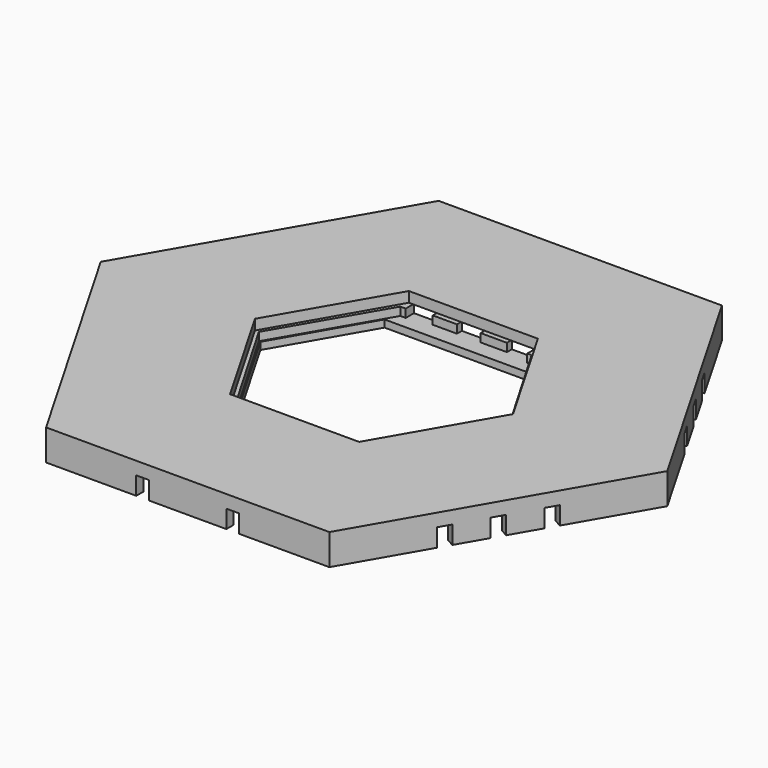
from build123d import *

# Parameters (mm, degrees)
PAD_DEPTH       = 12
POCKET_DEPTH    = 4
POCKET001_DEPTH = 2
POCKET002_DEPTH = 3.2
POCKET003_DEPTH = 5
POCKET004_DEPTH = 8
SKETCH007_W     = 6
SKETCH007_H     = 7
POCKET005_DEPTH = 2
SKETCH008_W     = 5
SKETCH008_H     = 6
SKETCH008_H_2   = 5.175393
POCKET006_DEPTH = 7
SKETCH009_W     = 10
SKETCH009_H     = 4
PAD001_DEPTH    = 3
POCKET007_DEPTH = 52


with BuildPart() as part:
    # Sketch → Pad (new body)
    with BuildSketch(Plane.XY):
        Polygon((-110, 0), (-55, -95.262794), (55, -95.262794), (110, 0), (55, 95.262794), (-55, 95.262794), align=None)
    extrude(amount=PAD_DEPTH)

    # Sketch001 (on Face8 of Pad) → Pocket (cut)
    with BuildSketch(Plane.XY.offset(12)):
        Polygon((-50.1, 0), (-25.05, -43.387873), (25.05, -43.387873), (50.1, 0), (25.05, 43.387873), (-25.05, 43.387873), align=None)
    extrude(amount=-POCKET_DEPTH, mode=Mode.SUBTRACT)

    # Sketch002 (on Face4 of Pocket) → Pocket001 (cut)
    with BuildSketch(Plane(origin=(0, 0, 0), x_dir=(1, 0, 0), z_dir=(0, 0, -1))):
        with BuildLine():
            Line((-106, 0), (-53, -91.798693))
            Line((53, -91.798693), (-53, -91.798693))
            Line((53, -91.798693), (106, 0))
            Line((53, 91.798693), (106, 0))
            Line((1.5, 91.798693), (53, 91.798693))
            Line((1.5, 91.798693), (1.5, 92.298693))
            ThreePointArc((1.5, 92.298693), (0, 93.798693), (-1.5, 92.298693))
            Line((-1.5, 91.798693), (-1.5, 92.298693))
            Line((-53, 91.798693), (-1.5, 91.798693))
            Line((-106, 0), (-53, 91.798693))
        make_face()
    extrude(amount=-POCKET001_DEPTH, mode=Mode.SUBTRACT)

    # Sketch003 (on Face26 of Pocket001) → Pocket002 (cut)
    with BuildSketch(Plane.XY.offset(8)):
        Polygon((-48.615, 0), (-24, -42.351379), (-12.5, -42.351379), (-12.5, -44.351379), (12.5, -44.351379), (12.5, -42.351379), (24, -42.351379), (48.615, 0), (25.5, 39.770552), (23.8, 39.770552), (23.8, 44.21), (14.6, 44.21), (14.6, 41.41), (4.4, 41.41), (4.4, 44.21), (-4.8, 44.21), (-4.8, 41.41), (-14.2, 41.41), (-14.2, 44.21), (-23.4, 44.21), (-23.4, 39.770552), (-25.5, 39.770552), align=None)
    extrude(amount=-POCKET002_DEPTH, mode=Mode.SUBTRACT)

    # Sketch005 (on Face56 of Pocket002) → Pocket003 (cut)
    with BuildSketch(Plane.XY.offset(4.8)):
        Polygon((-24, -41.569219), (24, -41.569219), (48, 0), (27.792741, 35), (-27.792741, 35), (-48, 0), align=None)
    extrude(amount=-POCKET003_DEPTH, mode=Mode.SUBTRACT)

    # Sketch006 (on Face25 of Pocket003) → Pocket004 (cut)
    with BuildSketch(Plane(origin=(0, 0, 2), x_dir=(1, 0, 0), z_dir=(0, 0, -1))):
        Polygon((106, 0), (53, 91.798693), (-53, 91.798693), (-106, 0), (-53, -91.798693), (53, -91.798693), align=None)
        Polygon((-26.5, -43.8), (26.5, -43.8), (52, 0), (26, 45.033321), (-26, 45.033321), (-52, 0), align=None, mode=Mode.SUBTRACT)
    extrude(amount=-POCKET004_DEPTH, mode=Mode.SUBTRACT)

    # Sketch007 (on Face14 of Pocket004) → Pocket005 (cut)
    with BuildSketch(Plane(origin=(0, -91.798693, 0), x_dir=(-1, 0, 0), z_dir=(0, 1, 0))):
        with Locations((0, 5.5)):
            Rectangle(SKETCH007_W, SKETCH007_H)
    extrude(amount=-POCKET005_DEPTH, mode=Mode.SUBTRACT)

    # Sketch008 (on Face4 of Pocket005) → Pocket006 (cut)
    with BuildSketch(Plane(origin=(0, 0, 0), x_dir=(1, 0, 0), z_dir=(0, 0, -1))):
        with Locations((-17.5, -93.155396)):
            Rectangle(SKETCH008_W, SKETCH008_H)
        with Locations((17.5, -93.155396)):
            Rectangle(SKETCH008_W, SKETCH008_H)
        with Locations((-17.5, 92.844604)):
            Rectangle(SKETCH008_W, SKETCH008_H)
        with Locations((17.5, 92.844604)):
            Rectangle(SKETCH008_W, SKETCH008_H)
        Polygon((72.943614, -65.208026), (67.747462, -62.208026), (70.247462, -57.877899), (75.443614, -60.877899), align=None)
        Polygon((91.08198, -35.276307), (85.885827, -32.276307), (88.385827, -27.94618), (93.58198, -30.94618), align=None)
        Polygon((-88.307892, 27.495521), (-93.504045, 30.495521), (-90.832982, 35.121938), (-85.636829, 32.121938), align=None)
        Polygon((-70.637333, 58.102991), (-75.833485, 61.102991), (-73.162422, 65.729408), (-67.96627, 62.729408), align=None)
        Polygon((68.025973, 62.368825), (73.222126, 65.368825), (75.722126, 61.038698), (70.525973, 58.038698), align=None)
        Polygon((85.525973, 32.057936), (90.722126, 35.057936), (93.222126, 30.727809), (88.025973, 27.727809), align=None)
        Polygon((-93.477396, -30.875189), (-88.281244, -27.875189), (-85.781244, -32.205316), (-90.977396, -35.205316), align=None)
        Polygon((-75.942627, -61.165973), (-70.746474, -58.165973), (-68.246474, -62.4961), (-73.442627, -65.4961), align=None)
        with Locations((0, -93.5677)):
            Rectangle(SKETCH008_W, SKETCH008_H_2)
        Polygon((-85.225594, -46.318269), (-80.029442, -43.318269), (-77.529442, -47.648396), (-82.725594, -50.648396), align=None)
        Polygon((76.42707, 47.011941), (81.623222, 50.011941), (84.123222, 45.681814), (78.92707, 42.681814), align=None)
        Polygon((-79.184311, 42.830332), (-84.380464, 45.830332), (-81.880464, 50.160459), (-76.684311, 47.160459), align=None)
        Polygon((82.868303, -50.730789), (77.672151, -47.730789), (80.172151, -43.400661), (85.368303, -46.400661), align=None)
    extrude(amount=-POCKET006_DEPTH, mode=Mode.SUBTRACT)

    # Sketch009 (on Face116 of Pocket006) → Pad001 (join)
    with BuildSketch(Plane.XZ.offset(45.033321)):
        with Locations((-21, 4)):
            Rectangle(SKETCH009_W, SKETCH009_H)
        with Locations((21, 4)):
            Rectangle(SKETCH009_W, SKETCH009_H)
    extrude(amount=PAD001_DEPTH)

    # Sketch010 (on Face155 of Pad001) → Pocket007 (cut)
    with BuildSketch(Plane(origin=(-26, 0, 0), x_dir=(0, -1, 0), z_dir=(-1, 0, 0))):
        Polygon((45.049209, 6.011785), (48.049209, 2.011785), (48.049209, 6.011785), align=None)
    extrude(amount=-POCKET007_DEPTH, mode=Mode.SUBTRACT)


solid = part.part
